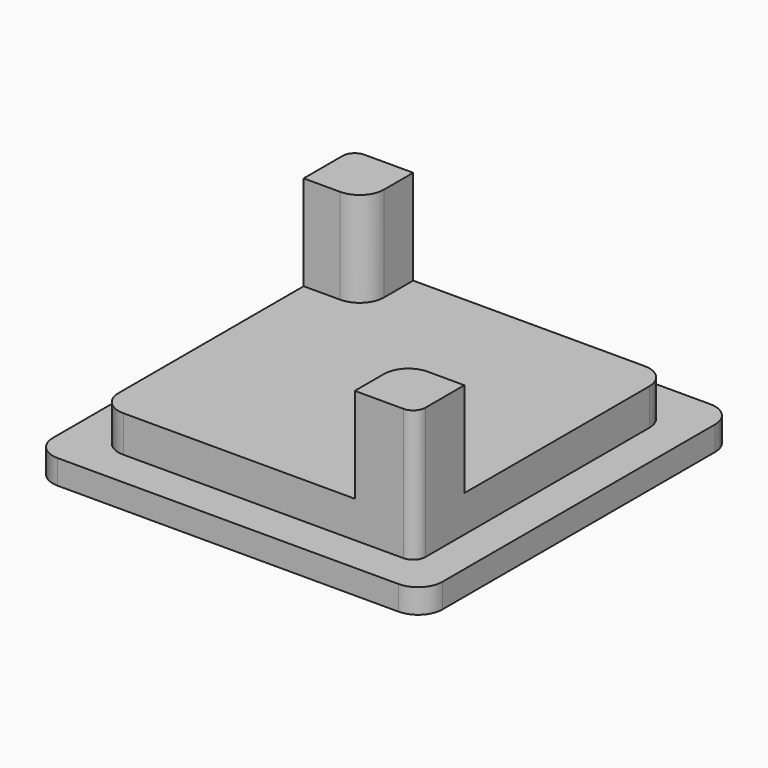
from build123d import *

# Parameters (mm, degrees)
BOX013_W     = 26
BOX013_H     = 26
BOX013_DEPTH = 3
BOX014_W     = 5
BOX014_H     = 5
BOX014_DEPTH = 7.8
BOX015_W     = 5
BOX015_H     = 5
BOX015_DEPTH = 7.8
BOX012_W     = 32
BOX012_H     = 32
BOX012_DEPTH = 2
FILLET_R     = 2
FILLET001_R  = 1
FILLET002_R  = 2


with BuildPart() as obj1:
    # Box013 → Box013 (new body)
    with BuildSketch(Plane(origin=(-13, -13, -10), x_dir=(1, 0, 0), z_dir=(0, 0, 1))):
        with Locations((13, 13)):
            Rectangle(BOX013_W, BOX013_H)
    extrude(amount=BOX013_DEPTH)


with BuildPart() as obj2:
    # Box014 → Box014 (new body)
    with BuildSketch(Plane(origin=(-13, 8, -7), x_dir=(1, 0, 0), z_dir=(0, 0, 1))):
        with Locations((2.5, 2.5)):
            Rectangle(BOX014_W, BOX014_H)
    extrude(amount=BOX014_DEPTH)


with BuildPart() as obj3:
    # Box015 → Box015 (new body)
    with BuildSketch(Plane(origin=(8, -13, -7), x_dir=(1, 0, 0), z_dir=(0, 0, 1))):
        with Locations((2.5, 2.5)):
            Rectangle(BOX015_W, BOX015_H)
    extrude(amount=BOX015_DEPTH)


with BuildPart() as fillet002:
    # Box012 → Box012 (new body)
    with BuildSketch(Plane(origin=(-16, -16, -12), x_dir=(1, 0, 0), z_dir=(0, 0, 1))):
        with Locations((16, 16)):
            Rectangle(BOX012_W, BOX012_H)
    extrude(amount=BOX012_DEPTH)

    # Fusion001: union obj1, obj2, obj3
    add(obj1.part)
    add(obj2.part)
    add(obj3.part)

    # Fillet
    fillet_edges = [fillet002.edges().sort_by_distance(p)[0] for p in [
        (-8, 8, -3.1),
        (8, -8, -3.1),
    ]]
    fillet(fillet_edges, radius=FILLET_R)

    # Fillet001
    fillet001_edges = [fillet002.edges().sort_by_distance(p)[0] for p in [
        (-13, 13, -3.1),
        (13, -13, -3.1),
    ]]
    fillet(fillet001_edges, radius=FILLET001_R)

    # Fillet002
    fillet002_edges = [fillet002.edges().sort_by_distance(p)[0] for p in [
        (-13, -13, -8.5),
        (13, 13, -8.5),
        (-16, -16, -11),
        (-16, 16, -11),
        (16, 16, -11),
        (16, -16, -11),
    ]]
    fillet(fillet002_edges, radius=FILLET002_R)


solid = fillet002.part
